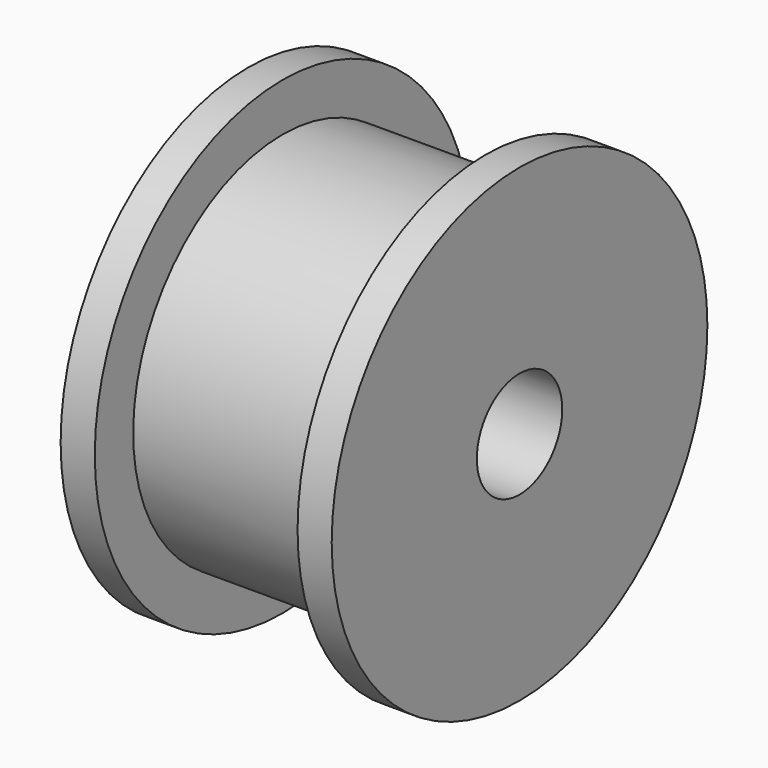
from build123d import *

# Parameters (mm, degrees)
F2_R     = 2.5
F3_DEPTH = 12.701


with BuildPart() as f1:
    # F0 (on Front) → F1 (revolve)
    with BuildSketch(Plane.XZ):
        Polygon((-6.35, 11), (-6.35, 0), (6.35, 0), (6.35, 11), (4.75, 11), (4.75, 8.75), (-4.75, 8.75), (-4.75, 11), align=None)
    revolve(axis=Axis((-12.864703, 0, 0), (1, 0, 0)))

    # F2 (on face) → F3 (cut, through all)
    with BuildSketch(Plane.YZ.offset(6.35)):
        Circle(F2_R)
    extrude(amount=-F3_DEPTH, mode=Mode.SUBTRACT)


solid = f1.part
